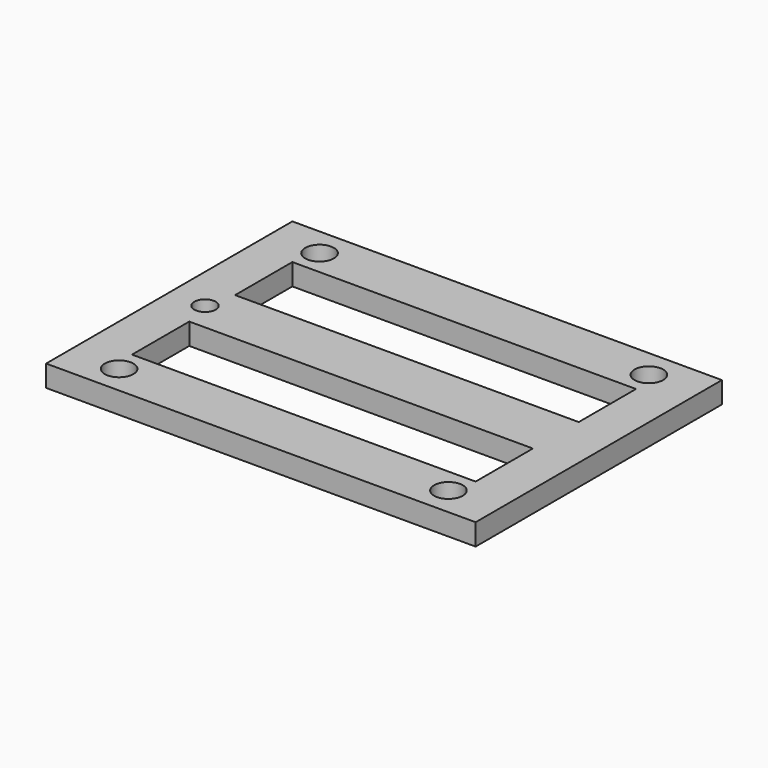
from build123d import *

# Parameters (mm, degrees)
CYLINDER004_R     = 2
CYLINDER004_DEPTH = 10
CYLINDER005_R     = 2
CYLINDER005_DEPTH = 10
CYLINDER006_R     = 2
CYLINDER006_DEPTH = 10
CYLINDER003_R     = 2
CYLINDER003_DEPTH = 10
SKETCH001_W       = 60
SKETCH001_H       = 43
SKETCH001_R       = 1.5
SKETCH001_W_2     = 48
SKETCH001_H_2     = 10
EXTRUDE001_DEPTH  = 3


with BuildPart() as cylinder004:
    # Cylinder004 → Cylinder004 (new body)
    with BuildSketch(Plane(origin=(5, 39, 40), x_dir=(1, 0, 0), z_dir=(0, 0, 1))):
        Circle(CYLINDER004_R)
    extrude(amount=CYLINDER004_DEPTH)


with BuildPart() as cylinder005:
    # Cylinder005 → Cylinder005 (new body)
    with BuildSketch(Plane(origin=(51, 39, 40), x_dir=(1, 0, 0), z_dir=(0, 0, 1))):
        Circle(CYLINDER005_R)
    extrude(amount=CYLINDER005_DEPTH)


with BuildPart() as cylinder006:
    # Cylinder006 → Cylinder006 (new body)
    with BuildSketch(Plane(origin=(51, 4, 40), x_dir=(1, 0, 0), z_dir=(0, 0, 1))):
        Circle(CYLINDER006_R)
    extrude(amount=CYLINDER006_DEPTH)


with BuildPart() as fusion008:
    # Cylinder003 → Cylinder003 (new body)
    with BuildSketch(Plane(origin=(5, 4, 40), x_dir=(1, 0, 0), z_dir=(0, 0, 1))):
        Circle(CYLINDER003_R)
    extrude(amount=CYLINDER003_DEPTH)

    # Fusion008: union Cylinder004, Cylinder005, Cylinder006
    add(cylinder004.part)
    add(cylinder005.part)
    add(cylinder006.part)


with BuildPart() as cut004:
    # Sketch001 → Extrude001 (new body)
    with BuildSketch(Plane.XY):
        with Locations((-30, 21.5)):
            Rectangle(SKETCH001_W, SKETCH001_H)
        with Locations((-55, 21.5)):
            Circle(SKETCH001_R, mode=Mode.SUBTRACT)
        with Locations((-30, 12.5)):
            Rectangle(SKETCH001_W_2, SKETCH001_H_2, mode=Mode.SUBTRACT)
        with Locations((-30, 30.5)):
            Rectangle(SKETCH001_W_2, SKETCH001_H_2, mode=Mode.SUBTRACT)
    extrude(amount=EXTRUDE001_DEPTH)


with BuildPart() as cut004_1:
    # Extrude001 placement: moved
    add(cut004.part.moved(Location((58, 0, 41.5))))

    # Cut004: cut Fusion008
    add(fusion008.part, mode=Mode.SUBTRACT)


solid = cut004_1.part
